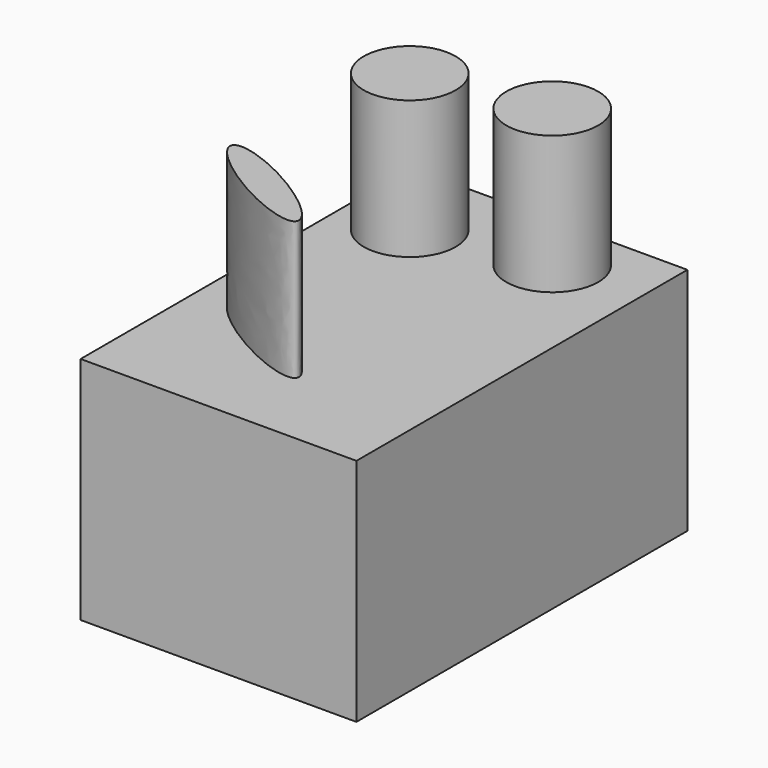
from build123d import *

# Parameters (mm, degrees)
F0_W     = 60
F0_H     = 90
F1_DEPTH = 50
F2_R     = 10
F3_DEPTH = 30
F5_DEPTH = 30


with BuildPart() as f1:
    # F0 (on Top) → F1 (new body)
    with BuildSketch(Plane.XY):
        Rectangle(F0_W, F0_H)
    extrude(amount=F1_DEPTH)

    # F2 (on face) → F3 (join)
    with BuildSketch(Plane.XY.offset(50)):
        with Locations((11, 32)):
            Circle(F2_R)
        with Locations((-16, 27)):
            Circle(F2_R)
        with BuildLine():
            add(Edge.make_bspline(
                [(2.990381, -27.5), (6.02147, -22.25), (-14.979646, -13.625), (-35.980762, -5), (-18.010735, -18.875), (-0.040708, -32.75), (2.990381, -27.5)],
                knots=[0, 0, 0, 2.094395, 2.094395, 4.18879, 4.18879, 6.283185, 6.283185, 6.283185], degree=2, weights=[1, 0.5, 1, 0.5, 1, 0.5, 1]))
        make_face()
    extrude(amount=F3_DEPTH)

    # F4 (on face) → F5 (cut)
    with BuildSketch(Plane(origin=(0, 45, 0), x_dir=(-1, 0, 0), z_dir=(0, 1, 0))):
        Polygon((5, 17.928932), (12.071068, 25), (12.071068, 35), (5, 42.071068), (-5, 42.071068), (-12.071068, 35), (-12.071068, 25), (-5, 17.928932), align=None)
    extrude(amount=-F5_DEPTH, mode=Mode.SUBTRACT)


solid = f1.part
